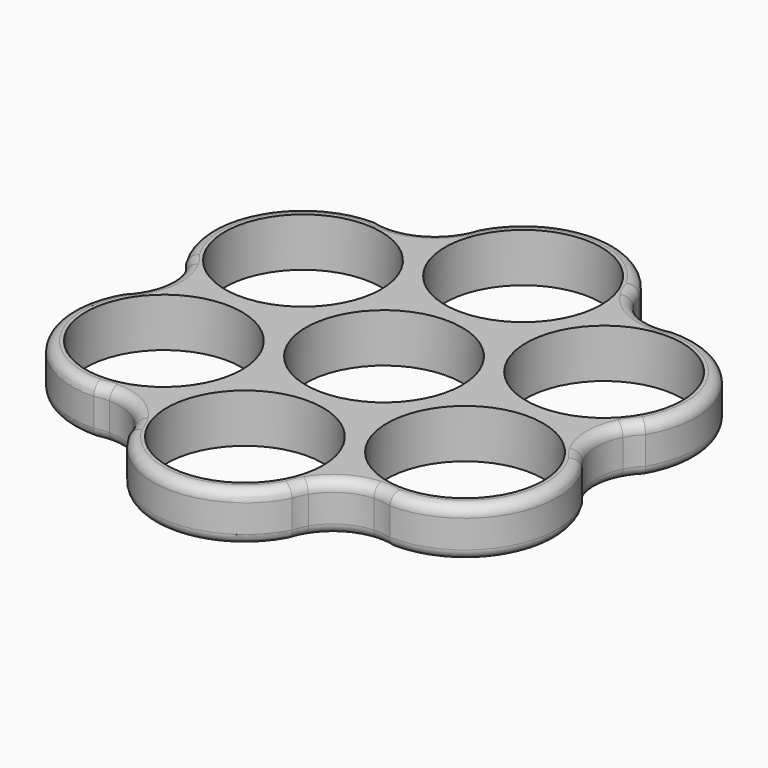
from build123d import *

# Parameters (mm, degrees)
F0_R     = 11.2
F1_DEPTH = 7
F2_R     = 1.5


with BuildPart() as f1:
    # F0 (on Top) → F1 (new body)
    with BuildSketch(Plane.XY):
        with BuildLine():
            ThreePointArc((19.0387778282, 25.4215115326), (15.3530451286, 26.4028313771), (12.5615676573, 29.0019211595))
            ThreePointArc((12.5615676573, 29.0019211595), (11.9448954959, 30.1483264996), (11.5256299455, 31.3807006946))
            ThreePointArc((11.5256299455, 31.3807006946), (-0.1562950433, 38.1455034946), (-11.6747579422, 31.1059764641))
            ThreePointArc((-11.6747579422, 31.1059764641), (-12.0223436264, 30.1251840115), (-12.4962858757, 29.1988210225))
            ThreePointArc((-12.4962858757, 29.1988210225), (-15.1890001401, 26.4975427954), (-18.835616654, 25.3795972823))
            ThreePointArc((-18.835616654, 25.3795972823), (-20.1367688823, 25.4187461947), (-21.4136690174, 25.6718386748))
            ThreePointArc((-21.4136690174, 25.6718386748), (-33.1131225881, 18.9373962693), (-32.7759447985, 5.442351271))
            ThreePointArc((-32.7759447985, 5.442351271), (-32.1003464608, 4.6509370122), (-31.5350637039, 3.77730949))
            ThreePointArc((-31.5350637039, 3.77730949), (-30.5420452687, 0.0947114183), (-31.3971843113, -3.6223238772))
            ThreePointArc((-31.3971843113, -3.6223238772), (-32.0816643781, -4.7295803048), (-32.9392989629, -5.7088620199))
            ThreePointArc((-32.9392989629, -5.7088620199), (-32.9568275448, -19.2081072253), (-21.1011868563, -25.6636251931))
            ThreePointArc((-21.1011868563, -25.6636251931), (-20.0780028344, -25.4742469992), (-19.0387778282, -25.4215115326))
            ThreePointArc((-19.0387778282, -25.4215115326), (-15.3530451286, -26.4028313771), (-12.5615676573, -29.0019211595))
            ThreePointArc((-12.5615676573, -29.0019211595), (-11.9448954959, -30.1483264996), (-11.5256299455, -31.3807006946))
            ThreePointArc((-11.5256299455, -31.3807006946), (0.1562950433, -38.1455034946), (11.6747579422, -31.1059764641))
            ThreePointArc((11.6747579422, -31.1059764641), (12.0223436264, -30.1251840115), (12.4962858757, -29.1988210225))
            ThreePointArc((12.4962858757, -29.1988210225), (15.1890001401, -26.4975427954), (18.835616654, -25.3795972823))
            ThreePointArc((18.835616654, -25.3795972823), (20.1367688823, -25.4187461947), (21.4136690174, -25.6718386748))
            ThreePointArc((21.4136690174, -25.6718386748), (33.1131225881, -18.9373962693), (32.7759447985, -5.442351271))
            ThreePointArc((32.7759447985, -5.442351271), (32.1003464608, -4.6509370122), (31.5350637039, -3.77730949))
            ThreePointArc((31.5350637039, -3.77730949), (30.5420452687, -0.0947114183), (31.3971843113, 3.6223238772))
            ThreePointArc((31.3971843113, 3.6223238772), (32.0816643781, 4.7295803048), (32.9392989629, 5.7088620199))
            ThreePointArc((32.9392989629, 5.7088620199), (32.9568275448, 19.2081072253), (21.1011868563, 25.6636251931))
            ThreePointArc((21.1011868563, 25.6636251931), (20.0780028344, 25.4742469992), (19.0387778282, 25.4215115326))
        make_face()
        with Locations((-21.6042411052, -12.4732144177)):
            Circle(F0_R, mode=Mode.SUBTRACT)
        with Locations((0, -24.9464288354)):
            Circle(F0_R, mode=Mode.SUBTRACT)
        with Locations((21.6042411052, -12.4732144177)):
            Circle(F0_R, mode=Mode.SUBTRACT)
        with Locations((-21.6042411052, 12.4732144177)):
            Circle(F0_R, mode=Mode.SUBTRACT)
        Circle(F0_R, mode=Mode.SUBTRACT)
        with Locations((21.6042411052, 12.4732144177)):
            Circle(F0_R, mode=Mode.SUBTRACT)
        with Locations((0, 24.9464288354)):
            Circle(F0_R, mode=Mode.SUBTRACT)
    extrude(amount=F1_DEPTH)

    # F2
    f2_edges = [f1.edges().sort_by_distance(p)[0] for p in [
        (15.415547, -26.366143, 7),
        (33.113123, -18.937396, 7),
        (30.541524, 0.167184, 7),
        (32.956828, 19.208107, 7),
        (11.52563, 31.380701, 3.5),
        (-0.156295, 38.145503, 7),
        (-15.415547, 26.366143, 7),
        (-33.113123, 18.937396, 7),
        (-30.541524, -0.167184, 7),
        (-32.956828, -19.208107, 7),
        (0.156295, -38.145503, 7),
        (-15.125976, -26.533327, 7),
        (15.125976, 26.533327, 7),
        (33.113123, -18.937396, 0),
        (15.415547, -26.366143, 0),
        (0.156295, -38.145503, 0),
        (-15.125976, -26.533327, 0),
        (-32.956828, -19.208107, 0),
        (-30.541524, -0.167184, 0),
        (-33.113123, 18.937396, 0),
        (-15.415547, 26.366143, 0),
        (-0.156295, 38.145503, 0),
        (32.956828, 19.208107, 0),
        (15.125976, 26.533327, 0),
        (30.541524, 0.167184, 0),
    ]]
    fillet(f2_edges, radius=F2_R)


solid = f1.part
